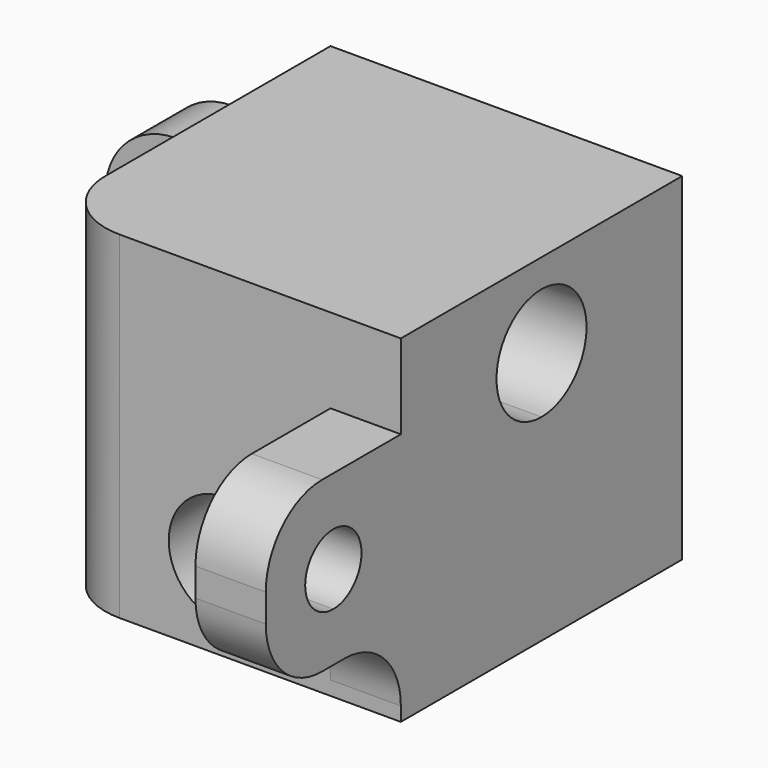
from build123d import *

# Parameters (mm, degrees)
F0_W      = 25
F0_H      = 45
F1_DEPTH  = 25
F3_DEPTH  = 25
F5_DEPTH  = 25
F6_W      = 5
F6_H      = 12
F7_DEPTH  = 12
F9_DEPTH  = 25
F10_R     = 5
F11_W     = 5
F11_H     = 12
F12_DEPTH = 12
F14_DEPTH = 25
F15_R     = 5
F16_W     = 19
F16_H     = 6
F17_DEPTH = 19
F19_DEPTH = 12
F20_R     = 5
F21_R     = 5
F22_DEPTH = 2
F23_DEPTH = 19
F24_DEPTH = 7


with BuildPart() as f1:
    # F0 (on Front) → F1 (new body)
    with BuildSketch(Plane.XZ):
        with Locations((12.5, 22.5)):
            Rectangle(F0_W, F0_H)
    extrude(amount=F1_DEPTH)

    # F2 (on face) → F3 (cut)
    with BuildSketch(Plane.XZ.offset(25)):
        with BuildLine():
            ThreePointArc((16.5, 25), (9.6715728753, 27.8284271247), (12.5, 21))
            ThreePointArc((12.5, 21), (15.3284271247, 22.1715728753), (16.5, 25))
        make_face()
    extrude(amount=-F3_DEPTH, mode=Mode.SUBTRACT)

    # F4 (on face) → F5 (cut)
    with BuildSketch(Plane(origin=(0, 0, 0), x_dir=(0, -1, 0), z_dir=(-1, 0, 0))):
        with BuildLine():
            ThreePointArc((16.5, 37), (9.6715728753, 39.8284271247), (12.5, 33))
            ThreePointArc((12.5, 33), (15.3284271247, 34.1715728753), (16.5, 37))
        make_face()
    extrude(amount=-F5_DEPTH, mode=Mode.SUBTRACT)

    # F6 (on face) → F7 (join)
    with BuildSketch(Plane(origin=(0, 0, 0), x_dir=(0, -1, 0), z_dir=(-1, 0, 0))):
        with Locations((2.5, 31)):
            Rectangle(F6_W, F6_H)
    extrude(amount=F7_DEPTH)

    # F8 (on face) → F9 (cut)
    with BuildSketch(Plane.XZ.offset(5)):
        with BuildLine():
            ThreePointArc((-6, 33.5), (-8.5, 31), (-6, 28.5))
            Line((-6, 28.5), (-6, 33.5))
        make_face()
        with BuildLine():
            Line((-6, 33.5), (-6, 28.5))
            ThreePointArc((-6, 28.5), (-4.232233047, 29.232233047), (-3.5, 31))
            ThreePointArc((-3.5, 31), (-4.232233047, 32.767766953), (-6, 33.5))
        make_face()
    extrude(amount=-F9_DEPTH, mode=Mode.SUBTRACT)

    # F10
    f10_edges = [f1.edges().sort_by_distance(p)[0] for p in [
        (-12, -2.5, 37),
        (-12, -2.5, 25),
        (0, -2.5, 37),
    ]]
    fillet(f10_edges, radius=F10_R)

    # F11 (on face) → F12 (join)
    with BuildSketch(Plane.XZ.offset(25)):
        with Locations((22.5, 31)):
            Rectangle(F11_W, F11_H)
    extrude(amount=F12_DEPTH)

    # F13 (on face) → F14 (cut)
    with BuildSketch(Plane(origin=(20, 0, 0), x_dir=(0, -1, 0), z_dir=(-1, 0, 0))):
        with BuildLine():
            ThreePointArc((31, 33.5), (28.5, 31), (31, 28.5))
            Line((31, 28.5), (31, 33.5))
        make_face()
        with BuildLine():
            Line((31, 33.5), (31, 28.5))
            ThreePointArc((31, 28.5), (32.767766953, 29.232233047), (33.5, 31))
            ThreePointArc((33.5, 31), (32.767766953, 32.767766953), (31, 33.5))
        make_face()
    extrude(amount=-F14_DEPTH, mode=Mode.SUBTRACT)

    # F15
    f15_edges = [f1.edges().sort_by_distance(p)[0] for p in [
        (22.5, -37, 37),
        (22.5, -37, 25),
        (22.5, -25, 25),
    ]]
    fillet(f15_edges, radius=F15_R)

    # F16 (on face) → F17 (cut)
    with BuildSketch(Plane(origin=(0, 0, 0), x_dir=(0, -1, 0), z_dir=(-1, 0, 0))):
        with Locations((15.5, 7)):
            Rectangle(F16_W, F16_H)
    extrude(amount=-F17_DEPTH, mode=Mode.SUBTRACT)

    # F18 (on face) → F19 (cut)
    with BuildSketch(Plane(origin=(0, 0, 0), x_dir=(1, 0, 0), z_dir=(0, 0, -1))):
        Polygon((7.7781745931, 20.1085767529), (5.9480475741, 19.0519524259), (5.2781745931, 18.6652010799), (5.2781745931, 15.778449734), (7.7781745931, 14.335074061), (10.2781745931, 15.778449734), (10.2781745931, 18.6652010799), align=None)
    extrude(amount=-F19_DEPTH, mode=Mode.SUBTRACT)

    # F20
    f20_edges = [f1.edges().sort_by_distance(p)[0] for p in [
        (19, -6, 7),
    ]]
    fillet(f20_edges, radius=F20_R)

    # F21
    f21_edges = [f1.edges().sort_by_distance(p)[0] for p in [
        (0, -25, 2),
        (0, -25, 27.5),
    ]]
    fillet(f21_edges, radius=F21_R)

    # F22 (cut): a face of the model
    f22_faces = [f1.faces().sort_by_distance(p)[0] for p in [
        (12.59855993, -12.40144007, 45),
    ]]
    extrude(f22_faces, amount=-F22_DEPTH, mode=Mode.SUBTRACT)

    # F23 (cut): a face of the model
    f23_faces = [f1.faces().sort_by_distance(p)[0] for p in [
        (12.7730869211, -12.2269130789, 0),
    ]]
    extrude(f23_faces, amount=-F23_DEPTH, mode=Mode.SUBTRACT)

    # F24 (cut, through all): a face of the model
    f24_faces = [f1.faces().sort_by_distance(p)[0] for p in [
        (7.7781745931, -17.2218254069, 12),
    ]]
    extrude(f24_faces, amount=-F24_DEPTH, mode=Mode.SUBTRACT)


solid = f1.part
